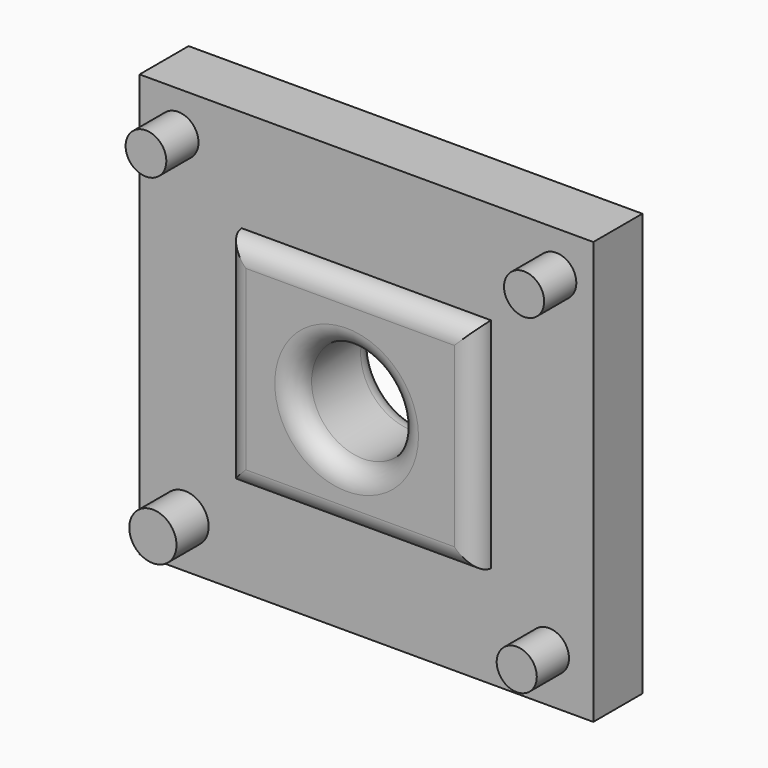
from build123d import *

# Parameters (mm, degrees)
F0_W     = 61.9982723147
F0_H     = 54.2247854173
F0_R     = 12.7819973787
F1_DEPTH = 25.4
F2_R     = 5.08
F3_DEPTH = 25.4
F4_DEPTH = 25.4
F5_DEPTH = 25.4
F6_DEPTH = 25.4
F7_R     = 5.0618882288
F7_R_2   = 4.9888661586
F7_R_3   = 4.9841843595
F7_R_4   = 5.8719562736
F8_DEPTH = 10


with BuildPart() as f1:
    # F0 (on Front) → F1 (new body)
    with BuildSketch(Plane.XZ):
        with Locations((0.8531874046, 0.758389011)):
            Rectangle(F0_W, F0_H)
        Circle(F0_R, mode=Mode.SUBTRACT)
    extrude(amount=F1_DEPTH)

    # F2
    f2_edges = [f1.edges().sort_by_distance(p)[0] for p in [
        (0.853187, -25.4, 27.870782),
        (-30.145949, -25.4, 0.758389),
        (0.853187, -25.4, -26.354004),
        (31.852324, -25.4, 0.758389),
        (-12.781997, -25.4, 0),
        (0.853187, 0, 27.870782),
        (-30.145949, 0, 0.758389),
        (0.853187, 0, -26.354004),
        (31.852324, 0, 0.758389),
        (-12.781997, 0, 0),
    ]]
    fillet(f2_edges, radius=F2_R)

    # F3 (add): a face of the model
    f3_faces = [f1.faces().sort_by_distance(p)[0] for p in [
        (0.8531874046, -12.7, 27.8707817197),
    ]]
    extrude(f3_faces, amount=F3_DEPTH)

    # F4 (add): a face of the model
    f4_faces = [f1.faces().sort_by_distance(p)[0] for p in [
        (0.8531874046, -12.7, -26.3540036976),
    ]]
    extrude(f4_faces, amount=F4_DEPTH)

    # F5 (add): a face of the model
    f5_faces = [f1.faces().sort_by_distance(p)[0] for p in [
        (-30.1459487528, -12.7, 0.758389011),
    ]]
    extrude(f5_faces, amount=F5_DEPTH)

    # F6 (add): a face of the model
    f6_faces = [f1.faces().sort_by_distance(p)[0] for p in [
        (31.8523235619, -12.7, 0.758389011),
    ]]
    extrude(f6_faces, amount=F6_DEPTH)

    # F7 (on face) → F8 (join)
    with BuildSketch(Plane.XZ.offset(20.32)):
        with Locations((-45.9536351264, 43.1434102356)):
            Circle(F7_R)
        with Locations((48.043269664, 42.9407022893)):
            Circle(F7_R_2)
        with Locations((46.2194345891, -39.781190455)):
            Circle(F7_R_3)
        with Locations((-44.2356690764, -40.0870218873)):
            Circle(F7_R_4)
    extrude(amount=F8_DEPTH)


solid = f1.part
